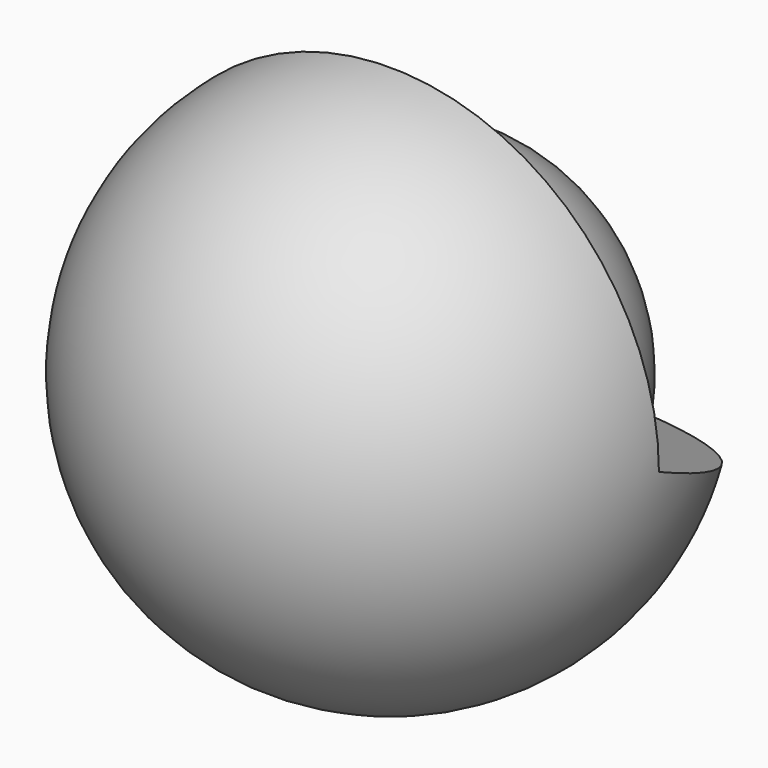
from build123d import *

# Parameters (mm, degrees)
F1_ANGLE = 245


with BuildPart() as f1:
    # F0 (on Front) → F1 (revolve)
    with BuildSketch(Plane.XZ):
        with BuildLine():
            Line((41, 0), (51.383959, 0))
            ThreePointArc((51.383959, 0), (0, 51.383959), (-51.383959, 0))
            Line((-51.383959, 0), (-41, 0))
            ThreePointArc((-41, 0), (0, 41), (41, 0))
        make_face()
    revolve(axis=Axis((-46.191979, 0, 0), (1, 0, 0)), revolution_arc=F1_ANGLE)


with BuildPart() as f3:
    # F2 (on Front) → F3 (revolve)
    with BuildSketch(Plane.XZ):
        with BuildLine():
            Line((-39.5, 0), (39.5, 0))
            ThreePointArc((39.5, 0), (0, 39.5), (-39.5, 0))
        make_face()
    revolve(axis=Axis((0, 0, 0), (-1, 0, 0)))


solid = Compound([f1.part, f3.part])
